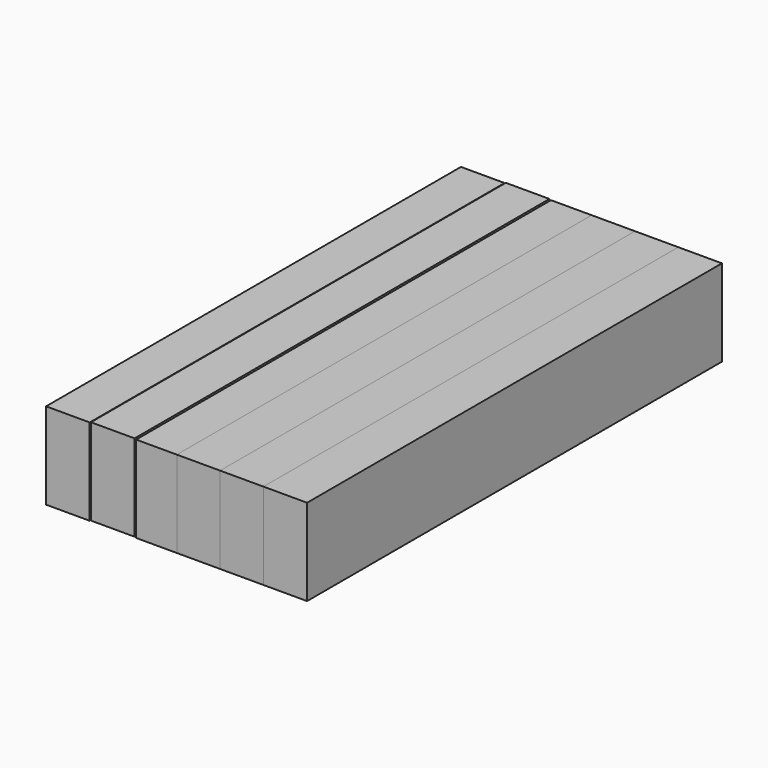
from build123d import *

# Parameters (mm, degrees)
F0_W     = 12.801599
F0_H     = 152.095198
F1_DEPTH = 25.4


with BuildPart() as f1:
    # F0 (on Top) → F1 (new body)
    with BuildSketch(Plane.XY):
        with Locations((-68.884799, 0)):
            Rectangle(F0_W, F0_H)
    extrude(amount=F1_DEPTH)


with BuildPart() as f2_1:
    # F2: copy of F1
    add(f1.part.moved(Location((12.954, 0.254, 0))))


with BuildPart() as f3_1:
    # F3: copy of F2_1
    add(f2_1.part.moved(Location((13.462, -0.254, 0))))


with BuildPart() as f4_1:
    # F4: copy of F2_1
    add(f2_1.part.moved(Location((13.716, 0, 0))))


with BuildPart() as f6_1:
    # F6: copy of F3_1
    add(f3_1.part.moved(Location((11.938, 0, 0))))


with BuildPart() as f7_1:
    # F7: copy of F6_1
    add(f6_1.part.moved(Location((12.7, 0, 0))))


with BuildPart() as f8_1:
    # F8: copy of F7_1
    add(f7_1.part.moved(Location((12.7, 0, 0))))


solid = Compound([f1.part, f2_1.part, f3_1.part, f6_1.part, f7_1.part, f8_1.part])
